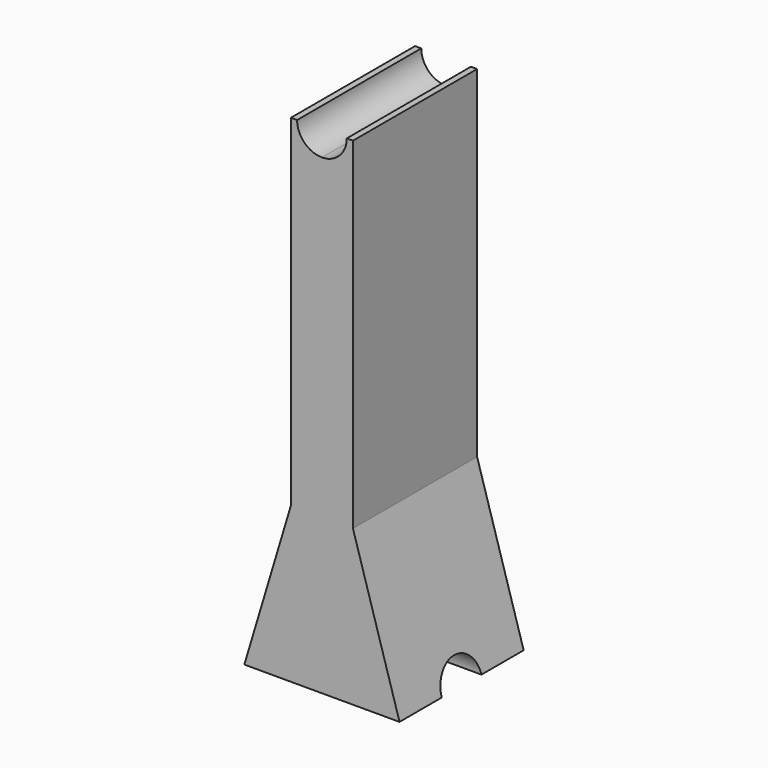
from build123d import *

# Parameters (mm, degrees)
F1_DEPTH = 25
F4_DEPTH = 30
F5_DEPTH = 15


with BuildPart() as f1:
    # F0 (on Front) → F1 (new body)
    with BuildSketch(Plane.XZ):
        Polygon((0, 80), (0, 0), (12.5, 0), (5, 25), (5, 80), align=None)
    extrude(amount=F1_DEPTH)

    # F3 (on face) → F4 (cut)
    with BuildSketch(Plane.XZ.offset(25)):
        with BuildLine():
            ThreePointArc((0, 76), (2.828427, 77.171573), (4, 80))
            Line((4, 80), (0, 80))
            Line((0, 80), (0, 76))
        make_face()
    extrude(amount=-F4_DEPTH, mode=Mode.SUBTRACT)

    # F2 (on face) → F5 (cut)
    with BuildSketch(Plane(origin=(0, 0, 0), x_dir=(0, -1, 0), z_dir=(-1, 0, 0))):
        with BuildLine():
            Line((8.5, 0), (16.5, 0))
            ThreePointArc((16.5, 0), (12.5, 4), (8.5, 0))
        make_face()
    extrude(amount=-F5_DEPTH, mode=Mode.SUBTRACT)

    # F6: F1 across plane


with BuildPart() as f1_1:
    add(f1.part)
    add(f1.part.mirror(Plane.YZ))


solid = f1_1.part
